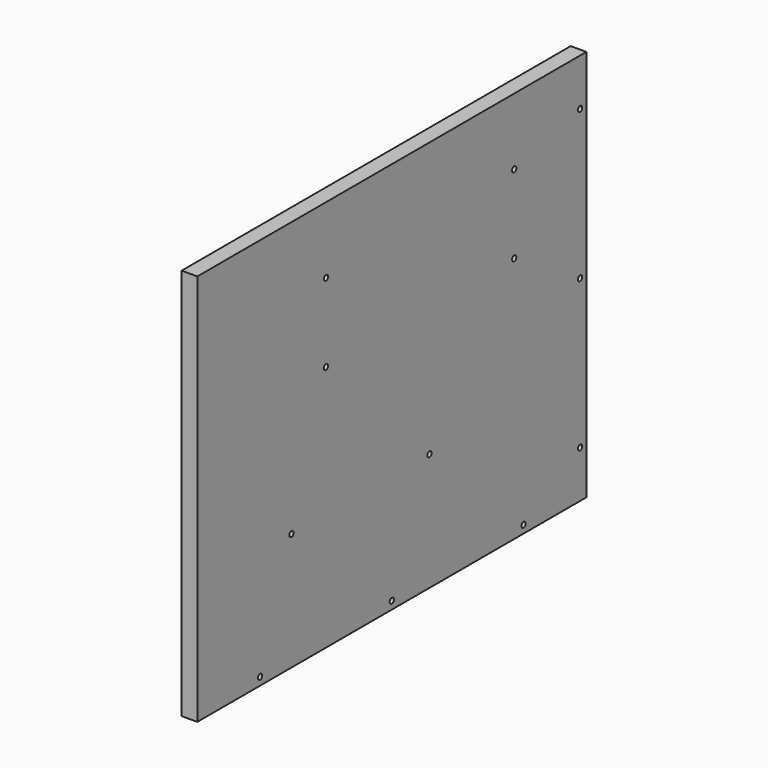
from build123d import *

# Parameters (mm, degrees)
CYLINDER035_R           = 1.7
CYLINDER035_DEPTH       = 20
CYLINDER035_PITCH_ANGLE = 90
CYLINDER034_R           = 1.7
CYLINDER034_DEPTH       = 20
CYLINDER034_PITCH_ANGLE = 90
CYLINDER009_R           = 1.7
CYLINDER009_DEPTH       = 20
CYLINDER005_R           = 1.7
CYLINDER005_DEPTH       = 61
CYLINDER005_PITCH_ANGLE = 90
CYLINDER004_R           = 1.7
CYLINDER004_DEPTH       = 61
CYLINDER004_PITCH_ANGLE = 90
CYLINDER002_R           = 1.7
CYLINDER002_DEPTH       = 61
CYLINDER002_PITCH_ANGLE = 90
BOX_W                   = 50
BOX_H                   = 215
BOX_DEPTH               = 115
CYLINDER006_R           = 1.7
CYLINDER006_DEPTH       = 61
CYLINDER006_PITCH_ANGLE = 90
SKETCH005_W             = 310
SKETCH005_H             = 250
SKETCH005_R             = 1.7
PAD005_DEPTH            = 10
CYLINDER008_R           = 1.7
CYLINDER008_DEPTH       = 20
CYLINDER010_R           = 1.7
CYLINDER010_DEPTH       = 20
CYLINDER010_ROLL_ANGLE  = 90
CYLINDER011_R           = 1.7
CYLINDER011_DEPTH       = 20
CYLINDER011_ROLL_ANGLE  = 90
CYLINDER012_R           = 1.7
CYLINDER012_DEPTH       = 20
CYLINDER012_ROLL_ANGLE  = 90
CYLINDER007_R           = 1.7
CYLINDER007_DEPTH       = 20


with BuildPart() as cylinder035:
    # Cylinder035 → Cylinder035 (new body)
    with BuildSketch(Plane.XY):
        Circle(CYLINDER035_R)
    extrude(amount=CYLINDER035_DEPTH)


with BuildPart() as cylinder035_1:
    # Cylinder035 pitch: moved
    add(cylinder035.part.rotate(Axis((0, 0, 0), (0, 1, 0)), CYLINDER035_PITCH_ANGLE))


with BuildPart() as cylinder035_2:
    # Cylinder035 placement: moved
    add(cylinder035_1.part.moved(Location((200, 45, 65))))


with BuildPart() as fusion010:
    # Cylinder034 → Cylinder034 (new body)
    with BuildSketch(Plane.XY):
        Circle(CYLINDER034_R)
    extrude(amount=CYLINDER034_DEPTH)


with BuildPart() as fusion010_1:
    # Cylinder034 pitch: moved
    add(fusion010.part.rotate(Axis((0, 0, 0), (0, 1, 0)), CYLINDER034_PITCH_ANGLE))


with BuildPart() as fusion010_2:
    # Cylinder034 placement: moved
    add(fusion010_1.part.moved(Location((200, -65, 65))))

    # Fusion010: union Cylinder035
    add(cylinder035_2.part)


with BuildPart() as cylinder009:
    # Cylinder009 → Cylinder009 (new body)
    with BuildSketch(Plane(origin=(205, 120, 235), x_dir=(1, 0, 0), z_dir=(0, 0, 1))):
        Circle(CYLINDER009_R)
    extrude(amount=CYLINDER009_DEPTH)


with BuildPart() as cylinder005:
    # Cylinder005 → Cylinder005 (new body)
    with BuildSketch(Plane.XY):
        Circle(CYLINDER005_R)
    extrude(amount=CYLINDER005_DEPTH)


with BuildPart() as cylinder005_1:
    # Cylinder005 pitch: moved
    add(cylinder005.part.rotate(Axis((0, 0, 0), (0, 1, 0)), CYLINDER005_PITCH_ANGLE))


with BuildPart() as cylinder005_2:
    # Cylinder005 placement: moved
    add(cylinder005_1.part.moved(Location((150, 112.5, 147.5))))


with BuildPart() as cylinder004:
    # Cylinder004 → Cylinder004 (new body)
    with BuildSketch(Plane.XY):
        Circle(CYLINDER004_R)
    extrude(amount=CYLINDER004_DEPTH)


with BuildPart() as cylinder004_1:
    # Cylinder004 pitch: moved
    add(cylinder004.part.rotate(Axis((0, 0, 0), (0, 1, 0)), CYLINDER004_PITCH_ANGLE))


with BuildPart() as cylinder004_2:
    # Cylinder004 placement: moved
    add(cylinder004_1.part.moved(Location((150, -37.5, 197.5))))


with BuildPart() as cylinder002:
    # Cylinder002 → Cylinder002 (new body)
    with BuildSketch(Plane.XY):
        Circle(CYLINDER002_R)
    extrude(amount=CYLINDER002_DEPTH)


with BuildPart() as cylinder002_1:
    # Cylinder002 pitch: moved
    add(cylinder002.part.rotate(Axis((0, 0, 0), (0, 1, 0)), CYLINDER002_PITCH_ANGLE))


with BuildPart() as cylinder002_2:
    # Cylinder002 placement: moved
    add(cylinder002_1.part.moved(Location((150, -37.5, 147.5))))


with BuildPart() as box:
    # Box → Box (new body)
    with BuildSketch(Plane(origin=(150, -70, 115), x_dir=(1, 0, 0), z_dir=(0, 0, 1))):
        with Locations((25, 107.5)):
            Rectangle(BOX_W, BOX_H)
    extrude(amount=BOX_DEPTH)


with BuildPart() as fusion002:
    # Cylinder006 → Cylinder006 (new body)
    with BuildSketch(Plane.XY):
        Circle(CYLINDER006_R)
    extrude(amount=CYLINDER006_DEPTH)


with BuildPart() as fusion002_1:
    # Cylinder006 pitch: moved
    add(fusion002.part.rotate(Axis((0, 0, 0), (0, 1, 0)), CYLINDER006_PITCH_ANGLE))


with BuildPart() as fusion002_2:
    # Cylinder006 placement: moved
    add(fusion002_1.part.moved(Location((150, 112.5, 197.5))))

    # Fusion002: union Cylinder005, Cylinder004, Cylinder002, Box
    add(cylinder005_2.part)
    add(cylinder004_2.part)
    add(cylinder002_2.part)
    add(box.part)


with BuildPart() as cut002:
    # Sketch005 → Pad005 (new body)
    with BuildSketch(Plane.YZ.offset(200)):
        with Locations((15, 115)):
            Rectangle(SKETCH005_W, SKETCH005_H)
        with Locations((165, 210)):
            Circle(SKETCH005_R, mode=Mode.SUBTRACT)
        with Locations((165, 115)):
            Circle(SKETCH005_R, mode=Mode.SUBTRACT)
        with Locations((165, 20)):
            Circle(SKETCH005_R, mode=Mode.SUBTRACT)
        with Locations((120, -5)):
            Circle(SKETCH005_R, mode=Mode.SUBTRACT)
        with Locations((15, -5)):
            Circle(SKETCH005_R, mode=Mode.SUBTRACT)
        with Locations((-90, -5)):
            Circle(SKETCH005_R, mode=Mode.SUBTRACT)
        with Locations((-37.5, 197.5)):
            Circle(SKETCH005_R, mode=Mode.SUBTRACT)
        with Locations((-37.5, 147.5)):
            Circle(SKETCH005_R, mode=Mode.SUBTRACT)
        with Locations((112.5, 147.5)):
            Circle(SKETCH005_R, mode=Mode.SUBTRACT)
        with Locations((112.5, 197.5)):
            Circle(SKETCH005_R, mode=Mode.SUBTRACT)
    extrude(amount=PAD005_DEPTH)

    # Cut002: cut Fusion002
    add(fusion002_2.part, mode=Mode.SUBTRACT)


with BuildPart() as cut007:
    # Cut007 base: copy of Cut002
    add(cut002.part)

    # Cut007: cut Cylinder009
    add(cylinder009.part, mode=Mode.SUBTRACT)


with BuildPart() as cylinder008:
    # Cylinder008 → Cylinder008 (new body)
    with BuildSketch(Plane(origin=(205, 15, 235), x_dir=(1, 0, 0), z_dir=(0, 0, 1))):
        Circle(CYLINDER008_R)
    extrude(amount=CYLINDER008_DEPTH)


with BuildPart() as cut006:
    # Cut006 base: copy of Cut002
    add(cut002.part)

    # Cut006: cut Cylinder008
    add(cylinder008.part, mode=Mode.SUBTRACT)


with BuildPart() as cylinder010:
    # Cylinder010 → Cylinder010 (new body)
    with BuildSketch(Plane.XY):
        Circle(CYLINDER010_R)
    extrude(amount=CYLINDER010_DEPTH)


with BuildPart() as cylinder010_1:
    # Cylinder010 roll: moved
    add(cylinder010.part.rotate(Axis((0, 0, 0), (1, 0, 0)), CYLINDER010_ROLL_ANGLE))


with BuildPart() as cylinder010_2:
    # Cylinder010 placement: moved
    add(cylinder010_1.part.moved(Location((205, -135, 20))))


with BuildPart() as cut008:
    # Cut008 base: copy of Cut002
    add(cut002.part)

    # Cut008: cut Cylinder010
    add(cylinder010_2.part, mode=Mode.SUBTRACT)


with BuildPart() as cylinder011:
    # Cylinder011 → Cylinder011 (new body)
    with BuildSketch(Plane.XY):
        Circle(CYLINDER011_R)
    extrude(amount=CYLINDER011_DEPTH)


with BuildPart() as cylinder011_1:
    # Cylinder011 roll: moved
    add(cylinder011.part.rotate(Axis((0, 0, 0), (1, 0, 0)), CYLINDER011_ROLL_ANGLE))


with BuildPart() as cylinder011_2:
    # Cylinder011 placement: moved
    add(cylinder011_1.part.moved(Location((205, -135, 115))))


with BuildPart() as cut009:
    # Cut009 base: copy of Cut002
    add(cut002.part)

    # Cut009: cut Cylinder011
    add(cylinder011_2.part, mode=Mode.SUBTRACT)


with BuildPart() as cylinder012:
    # Cylinder012 → Cylinder012 (new body)
    with BuildSketch(Plane.XY):
        Circle(CYLINDER012_R)
    extrude(amount=CYLINDER012_DEPTH)


with BuildPart() as cylinder012_1:
    # Cylinder012 roll: moved
    add(cylinder012.part.rotate(Axis((0, 0, 0), (1, 0, 0)), CYLINDER012_ROLL_ANGLE))


with BuildPart() as cylinder012_2:
    # Cylinder012 placement: moved
    add(cylinder012_1.part.moved(Location((205, -135, 210))))


with BuildPart() as ok:
    # Cut010 base: copy of Cut002
    add(cut002.part)

    # Cut010: cut Cylinder012
    add(cylinder012_2.part, mode=Mode.SUBTRACT)


with BuildPart() as cylinder007:
    # Cylinder007 → Cylinder007 (new body)
    with BuildSketch(Plane(origin=(205, -90, 235), x_dir=(1, 0, 0), z_dir=(0, 0, 1))):
        Circle(CYLINDER007_R)
    extrude(amount=CYLINDER007_DEPTH)


with BuildPart() as cut013:
    # Cut005 base: copy of Cut002
    add(cut002.part)

    # Cut005: cut Cylinder007
    add(cylinder007.part, mode=Mode.SUBTRACT)

    # Fusion003: union Cut007, Cut006, Cut008, Cut009, ok
    add(cut007.part)
    add(cut006.part)
    add(cut008.part)
    add(cut009.part)
    add(ok.part)

    # Cut013: cut Fusion010
    add(fusion010_2.part, mode=Mode.SUBTRACT)


solid = cut013.part
